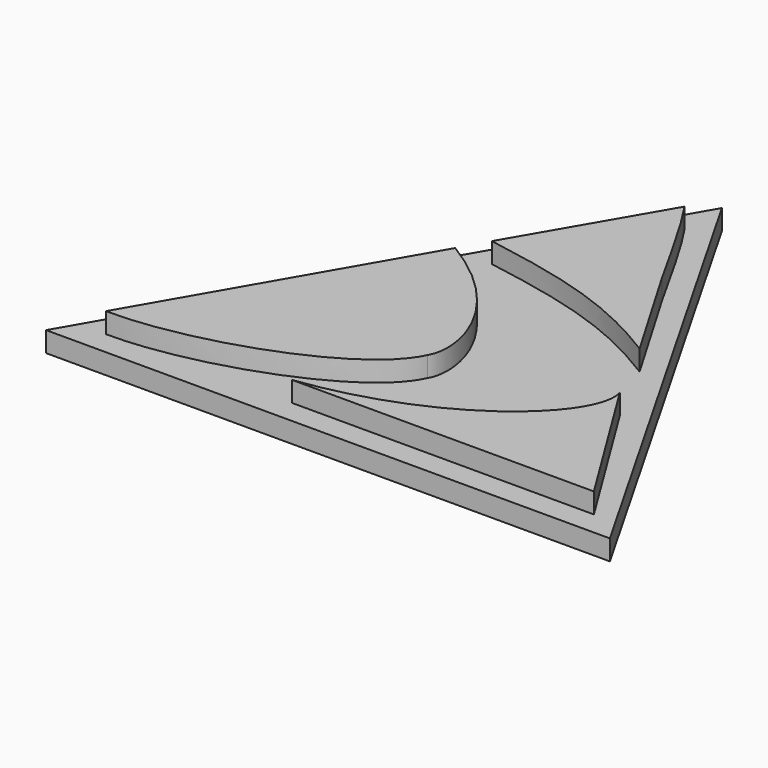
from build123d import *

# Parameters (mm, degrees)
F4_DEPTH = 6.35
F5_DEPTH = 3.175
F6_DEPTH = 6.35
F7_DEPTH = 6.35


with BuildPart() as f4:
    # F0 (on Top) → F4 (new body)
    with BuildSketch(Plane.XY):
        with BuildLine():
            Line((0, 65.86501), (-12.691889, 44.004165))
            add(Edge.make_bspline(
                [(-12.691889, 44.004165), (0, 41.807882), (8.420921, 39.781306), (19.231755, 33.027414)],
                knots=[0, 0, 0, 0, 33.758082, 33.758082, 33.758082, 33.758082], degree=3))
            add(Edge.make_bspline(
                [(9.615878, 49.446212), (13.190391, 43.027269), (16.764905, 36.608325), (19.231755, 33.027414)],
                knots=[19.027402, 19.027402, 19.027402, 19.027402, 38.054804, 38.054804, 38.054804, 38.054804], degree=3))
            Line((9.615878, 49.446212), (0, 65.86501))
        make_face()
        with BuildLine():
            add(Edge.make_bspline(
                [(0, 65.86501), (2.46685, 62.284099), (6.041364, 55.865156), (9.615878, 49.446212)],
                knots=[0, 0, 0, 0, 19.027402, 19.027402, 19.027402, 19.027402], degree=3))
            Line((0, 65.86501), (9.615878, 49.446212))
        make_face()
        with BuildLine():
            add(Edge.make_bspline(
                [(9.615878, 49.446212), (13.190391, 43.027269), (16.764905, 36.608325), (19.231755, 33.027414)],
                knots=[19.027402, 19.027402, 19.027402, 19.027402, 38.054804, 38.054804, 38.054804, 38.054804], degree=3))
            Line((19.231755, 33.027414), (9.615878, 49.446212))
        make_face()
    extrude(amount=F4_DEPTH)

    # F3 (on Top) → F5 (join)
    with BuildSketch(Plane.XY):
        Polygon((43.985669, -3.733072), (0, 73.194362), (-44.357441, -3.733072), align=None)
    extrude(amount=F5_DEPTH)

    # F2 (on Top) → F6 (join)
    with BuildSketch(Plane.XY):
        with BuildLine():
            Line((38.493596, 0), (24.638867, 22.391399))
            add(Edge.make_bspline(
                [(24.638867, 22.391399), (26.498249, 15.807372), (12.989721, 2.810146), (-8.79713, 0)],
                knots=[0, 0, 0, 0, 40.241032, 40.241032, 40.241032, 40.241032], degree=3))
            Line((-8.79713, 0), (38.493596, 0))
        make_face()
    extrude(amount=F6_DEPTH)

    # F1 (on Top) → F7 (join)
    with BuildSketch(Plane.XY):
        with BuildLine():
            Line((-15.045927, 39.76772), (-37.978165, 0))
            add(Edge.make_bspline(
                [(-37.978165, 0), (-24.740312, -0.17884), (-3.689409, 7.116403), (0, 15.49142)],
                knots=[0, 0, 0, 0, 41.016157, 41.016157, 41.016157, 41.016157], degree=3))
            add(Edge.make_bspline(
                [(-15.045927, 39.76772), (0, 30.680645), (2.194603, 18.867477), (0, 15.49142)],
                knots=[0, 0, 0, 0, 28.560788, 28.560788, 28.560788, 28.560788], degree=3))
        make_face()
    extrude(amount=F7_DEPTH)


solid = f4.part
